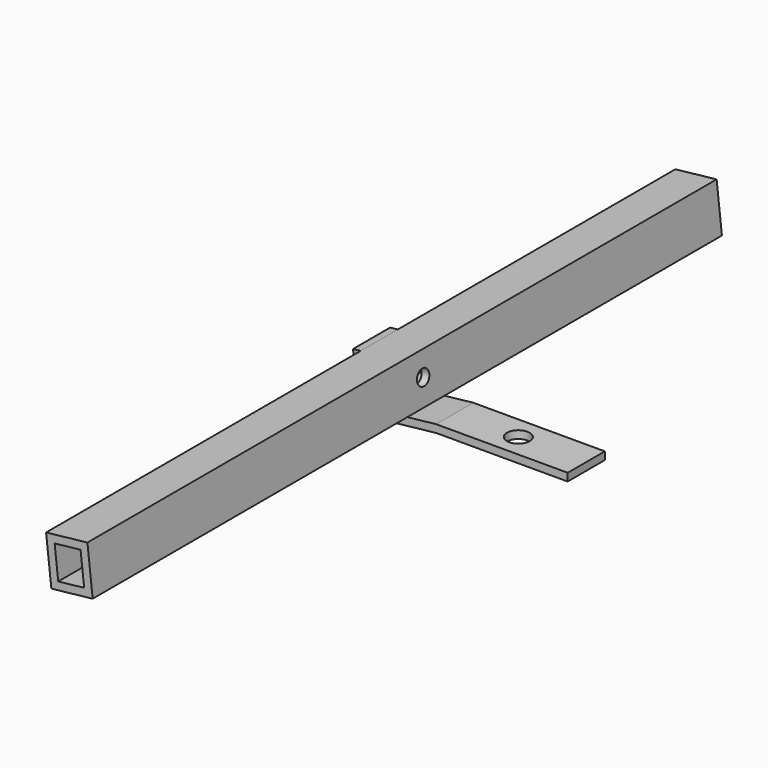
from build123d import *

# Parameters (mm, degrees)
F1_DEPTH = 30
F2_R     = 7.3564369941
F3_DEPTH = 10.4896114323
F4_R     = 4.9643455943
F5_DEPTH = 137.8729965196
F7_DEPTH = 254
F8_DEPTH = 133.196592753


with BuildPart() as f1:
    # F0 (on Front) → F1 (new body)
    with BuildSketch(Plane.XZ):
        Polygon((1.0179836117, 36.3313048123), (-3.9518002313, 35.7824436691), (0, 0), (49.6978384293, 5.4886114323), (134.6978384293, 5.4886114323), (134.6978384293, 10.4886114323), (49.6978384293, 10.4886114323), (4.4242395946, 5.4886114323), align=None)
    extrude(amount=F1_DEPTH)

    # F2 (on face) → F3 (cut, through all)
    with BuildSketch(Plane.XY.offset(10.4886114323)):
        with Locations((90.8175626415, -15)):
            Circle(F2_R)
    extrude(amount=-F3_DEPTH, mode=Mode.SUBTRACT)

    # F4 (on face) → F5 (cut, through all)
    with BuildSketch(Plane(origin=(0, 0, 0), x_dir=(0, -1, 0), z_dir=(-0.9939567686, 0, -0.1097722286))):
        with Locations((15, 20.9979638457)):
            Circle(F4_R)
    extrude(amount=-F5_DEPTH, mode=Mode.SUBTRACT)

    # F6 (on face) → F7 (join, symmetric)
    with BuildSketch(Plane.XZ.offset(30)):
        Polygon((27.710283177, 39.2791927926), (1.0179836117, 36.3313048123), (4.4242395946, 5.4886114323), (31.1165391599, 8.4364994126), align=None)
        Polygon((8.8451622943, 11.0072564185), (6.5366285978, 31.9103821126), (23.2893604773, 33.7605478064), (25.5978941738, 12.8574221123), align=None, mode=Mode.SUBTRACT)
    extrude(amount=F7_DEPTH, both=True)

    # F8 (cut, through all): a face of the model
    f8_faces = [f1.faces().sort_by_distance(p)[0] for p in [
        (2.6647905545, -15, 21.4199294342),
    ]]
    extrude(f8_faces, amount=-F8_DEPTH, mode=Mode.SUBTRACT)


solid = f1.part
